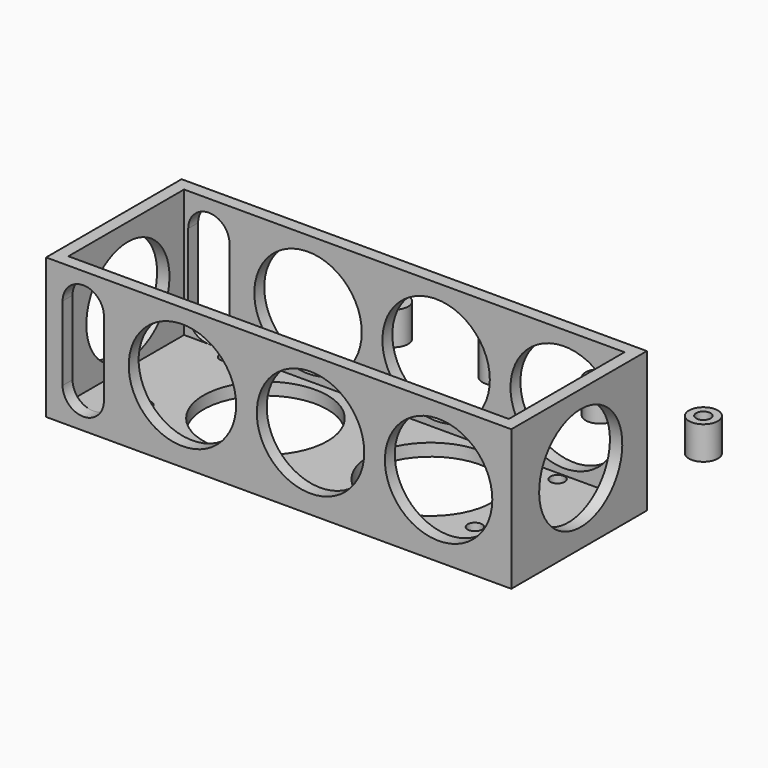
from build123d import *

# Parameters (mm, degrees)
SKETCH_R        = 3.5
SKETCH_R_2      = 1.75
PAD_DEPTH       = 8
SKETCH001_W     = 112.6
SKETCH001_H     = 34
PAD001_DEPTH    = 41
SKETCH002_W     = 106.6
SKETCH002_H     = 35
POCKET_DEPTH    = 31
SKETCH004_R     = 13
POCKET001_DEPTH = 41.001
SKETCH003_R     = 1.75
SKETCH003_R_2   = 15
POCKET002_DEPTH = 5
SKETCH005_R     = 12.575466
POCKET003_DEPTH = 112.601
SKETCH006_R     = 3.5
SKETCH006_R_2   = 1.75
PAD002_DEPTH    = 8
SKETCH007_R     = 3.5
SKETCH007_R_2   = 1.75
PAD003_DEPTH    = 8
SKETCH008_R     = 3.5
SKETCH008_R_2   = 1.75
PAD004_DEPTH    = 8


with BuildPart() as pad:
    # Sketch → Pad (new body)
    with BuildSketch(Plane(origin=(50, 25, 0), x_dir=(1, 0, 0), z_dir=(0, 0, 1))):
        Circle(SKETCH_R)
        Circle(SKETCH_R_2, mode=Mode.SUBTRACT)
    extrude(amount=PAD_DEPTH)


with BuildPart() as battery_box:
    # Sketch001 → Pad001 (new body)
    with BuildSketch(Plane.XZ):
        with Locations((0, 17)):
            Rectangle(SKETCH001_W, SKETCH001_H)
    extrude(amount=PAD001_DEPTH)

    # Sketch002 → Pocket (cut)
    with BuildSketch(Plane(origin=(0, 0, 34), x_dir=(-1, 0, 0), z_dir=(0, 0, 1))):
        with Locations((0, 20.5)):
            Rectangle(SKETCH002_W, SKETCH002_H)
    extrude(amount=-POCKET_DEPTH, mode=Mode.SUBTRACT)

    # Sketch004 → Pocket001 (cut, through all)
    with BuildSketch(Plane.XZ.offset(41)):
        with Locations((-23.3, 17.5)):
            Circle(SKETCH004_R)
        with Locations((7.7, 17.5)):
            Circle(SKETCH004_R)
        with Locations((38.7, 17.5)):
            Circle(SKETCH004_R)
        with BuildLine():
            ThreePointArc((-42.3, 26), (-47.3, 31), (-52.3, 26))
            Line((-52.3, 26), (-52.3, 8.000019))
            ThreePointArc((-52.3, 8.000019), (-47.3, 3), (-42.3, 8.000019))
            Line((-42.3, 26), (-42.3, 8.000019))
        make_face()
    extrude(amount=-POCKET001_DEPTH, mode=Mode.SUBTRACT)

    # Sketch003 → Pocket002 (cut)
    with BuildSketch(Plane(origin=(0, 0, 0), x_dir=(1, 0, 0), z_dir=(0, 0, -1))):
        with Locations((-41.3, 30)):
            Circle(SKETCH003_R)
        with Locations((38.7, 30)):
            Circle(SKETCH003_R)
        with Locations((-41.3, 5)):
            Circle(SKETCH003_R)
        with Locations((38.7, 5)):
            Circle(SKETCH003_R)
        with Locations((-20, 20)):
            Circle(SKETCH003_R_2)
        with Locations((20, 20)):
            Circle(SKETCH003_R_2)
    extrude(amount=-POCKET002_DEPTH, mode=Mode.SUBTRACT)

    # Sketch005 → Pocket003 (cut, through all)
    with BuildSketch(Plane(origin=(56.3, 0, 0), x_dir=(0, 0, 1), z_dir=(1, 0, 0))):
        with Locations((17.195639, 20)):
            Circle(SKETCH005_R)
    extrude(amount=-POCKET003_DEPTH, mode=Mode.SUBTRACT)


with BuildPart() as pad002:
    # Sketch006 → Pad002 (new body)
    with BuildSketch(Plane(origin=(-25, 25, 0), x_dir=(1, 0, 0), z_dir=(0, 0, 1))):
        Circle(SKETCH006_R)
        Circle(SKETCH006_R_2, mode=Mode.SUBTRACT)
    extrude(amount=PAD002_DEPTH)


with BuildPart() as pad003:
    # Sketch007 → Pad003 (new body)
    with BuildSketch(Plane(origin=(25, 25, 0), x_dir=(1, 0, 0), z_dir=(0, 0, 1))):
        Circle(SKETCH007_R)
        Circle(SKETCH007_R_2, mode=Mode.SUBTRACT)
    extrude(amount=PAD003_DEPTH)


with BuildPart() as pad004:
    # Sketch008 → Pad004 (new body)
    with BuildSketch(Plane(origin=(0, 25, 0), x_dir=(1, 0, 0), z_dir=(0, 0, 1))):
        Circle(SKETCH008_R)
        Circle(SKETCH008_R_2, mode=Mode.SUBTRACT)
    extrude(amount=PAD004_DEPTH)


solid = Compound([pad.part, battery_box.part, pad002.part, pad003.part, pad004.part])
